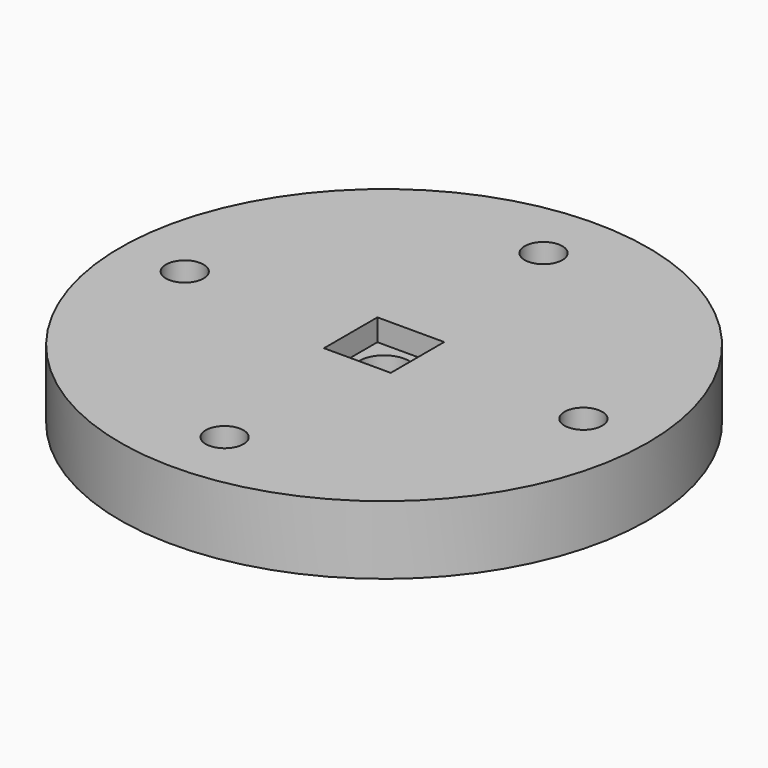
from build123d import *

# Parameters (mm, degrees)
F0_R     = 24.5
F0_R_2   = 1.75
F0_W     = 6.2
F0_H     = 6.2
F1_DEPTH = 6.35
F0_R_3   = 2.3
F2_DEPTH = 4.32


with BuildPart() as f1:
    # F0 (on Top) → F1 (new body)
    with BuildSketch(Plane.XY):
        Circle(F0_R)
        with Locations((0, -18.5)):
            Circle(F0_R_2, mode=Mode.SUBTRACT)
        with Locations((-18.5, 0)):
            Circle(F0_R_2, mode=Mode.SUBTRACT)
        Rectangle(F0_W, F0_H, mode=Mode.SUBTRACT)
        with Locations((18.5, 0)):
            Circle(F0_R_2, mode=Mode.SUBTRACT)
        with Locations((0, 18.5)):
            Circle(F0_R_2, mode=Mode.SUBTRACT)
    extrude(amount=F1_DEPTH)

    # F0 (on Top) → F2 (join)
    with BuildSketch(Plane.XY):
        Rectangle(F0_W, F0_H)
        Circle(F0_R_3, mode=Mode.SUBTRACT)
    extrude(amount=F2_DEPTH)


solid = f1.part
